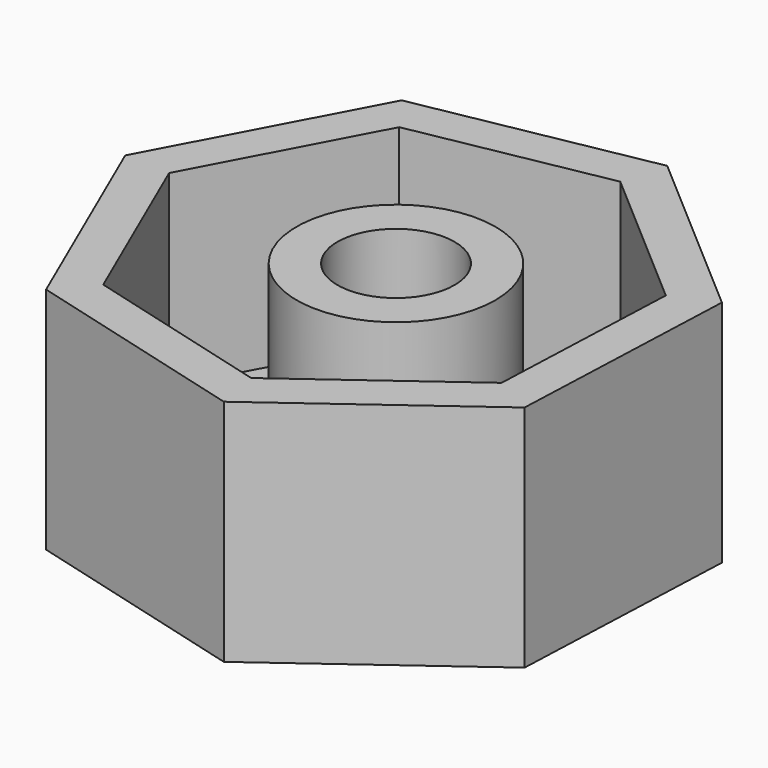
from build123d import *

# Parameters (mm, degrees)
F0_R     = 3.636094
F1_DEPTH = 14.224
F2_T     = -2.54


with BuildPart() as f1:
    # F0 (on Top) → F1 (new body)
    with BuildSketch(Plane.XY):
        Polygon((-17.40883, -6.778608), (-3.317572, -10.594991), (8.451953, -1.957478), (9.037052, 12.629708), (-2.002867, 22.182119), (-16.354518, 19.506593), (-23.210817, 6.617858), align=None)
        with Locations((-5.8684, 5.959329)):
            Circle(F0_R, mode=Mode.SUBTRACT)
    extrude(amount=F1_DEPTH)

    # F2
    f2_openings = [f1.faces().sort_by_distance(p)[0] for p in [
        (-10.242999, -8.242978, 14.224),
    ]]
    offset(amount=F2_T, openings=f2_openings)


solid = f1.part
